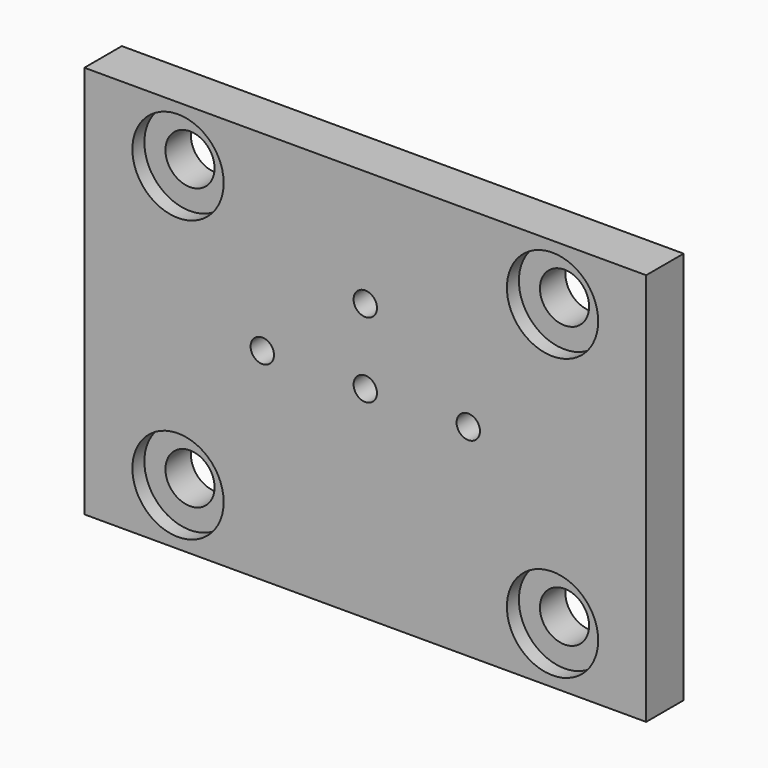
from build123d import *

# Parameters (mm, degrees)
F0_W           = 11.5
F0_H           = 42
F0_W_2         = 37
F1_DEPTH       = 5
F3_D           = 5.25
F3_DEPTH       = 50
F3_CBORE_D     = 9.75
F3_CBORE_DEPTH = 1.6
F3_TIP         = 1.5772591249
F4_D           = 2.5


with BuildPart() as f1:
    # F0 (on Front) → F1 (new body)
    with BuildSketch(Plane.XZ):
        with Locations((-24.25, -21)):
            Rectangle(F0_W, F0_H)
        with Locations((0, -21)):
            Rectangle(F0_W_2, F0_H)
        with Locations((24.25, -21)):
            Rectangle(F0_W, F0_H)
    extrude(amount=F1_DEPTH)

    # F3
    with Locations(Plane.XZ.offset(5)):
        with Locations((-20, -6), (20, -6), (20, -36), (-20, -36)):
            CounterBoreHole(F3_D / 2, F3_CBORE_D / 2, F3_CBORE_DEPTH, depth=F3_DEPTH)
            with Locations((0, 0, -(F3_DEPTH + F3_TIP / 2))):  # 118° drill point
                Cone(0, F3_D / 2, F3_TIP, mode=Mode.SUBTRACT)

    # F4 (through all)
    with Locations(Plane.XZ.offset(5)):
        with Locations((0, -12.4333016574), (0, -20.4333016574), (-11, -20.4333016574), (11, -20.4333016574)):
            Hole(F4_D / 2)


solid = f1.part
